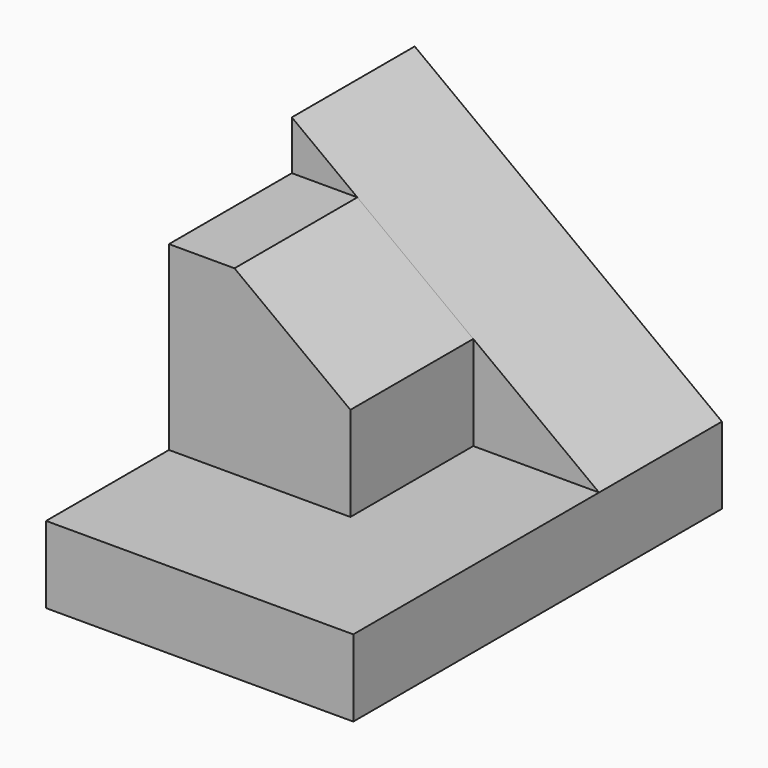
from build123d import *

# Parameters (mm, degrees)
F0_W      = 25.4
F0_H      = 38.1
F1_DEPTH  = 25.4
F2_W      = 25.4
F2_H      = 19.05
F3_DEPTH  = 12.7
F5_DEPTH  = 25.4
F6_W      = 25.4
F6_H      = 12.7
F7_DEPTH  = 25.4
F8_W      = 6.35
F8_H      = 4.064
F9_DEPTH  = 25.4
F11_DEPTH = 25.4


with BuildPart() as f1:
    # F0 (on Top) → F1 (new body)
    with BuildSketch(Plane.XY):
        with Locations((12.7, 19.05)):
            Rectangle(F0_W, F0_H)
    extrude(amount=-F1_DEPTH)

    # F2 (on Front) → F3 (cut)
    with BuildSketch(Plane.XZ):
        with Locations((12.7, -9.525)):
            Rectangle(F2_W, F2_H)
    extrude(amount=-F3_DEPTH, mode=Mode.SUBTRACT)

    # F4 (on face) → F5 (cut)
    with BuildSketch(Plane.XZ.offset(-12.7)):
        Polygon((25.4, 0), (0, 0), (25.4, -19.05), align=None)
    extrude(amount=-F5_DEPTH, mode=Mode.SUBTRACT)

    # F6 (on Top) → F7 (join)
    with BuildSketch(Plane.XY):
        with Locations((12.7, 19.05)):
            Rectangle(F6_W, F6_H)
    extrude(amount=-F7_DEPTH)

    # F8 (on Front) → F9 (cut)
    with BuildSketch(Plane.XZ):
        with Locations((3.175, -2.032)):
            Rectangle(F8_W, F8_H)
    extrude(amount=-F9_DEPTH, mode=Mode.SUBTRACT)

    # F10 (on Front) → F11 (cut)
    with BuildSketch(Plane.XZ):
        Polygon((15.000969, 0), (15.000969, -11.250727), (15.000969, -19.05), (27.700969, -19.05), (27.700969, 0), align=None)
        Polygon((15.000969, 0), (0, 0), (15.000969, -11.250727), align=None)
    extrude(amount=-F11_DEPTH, mode=Mode.SUBTRACT)


solid = f1.part
